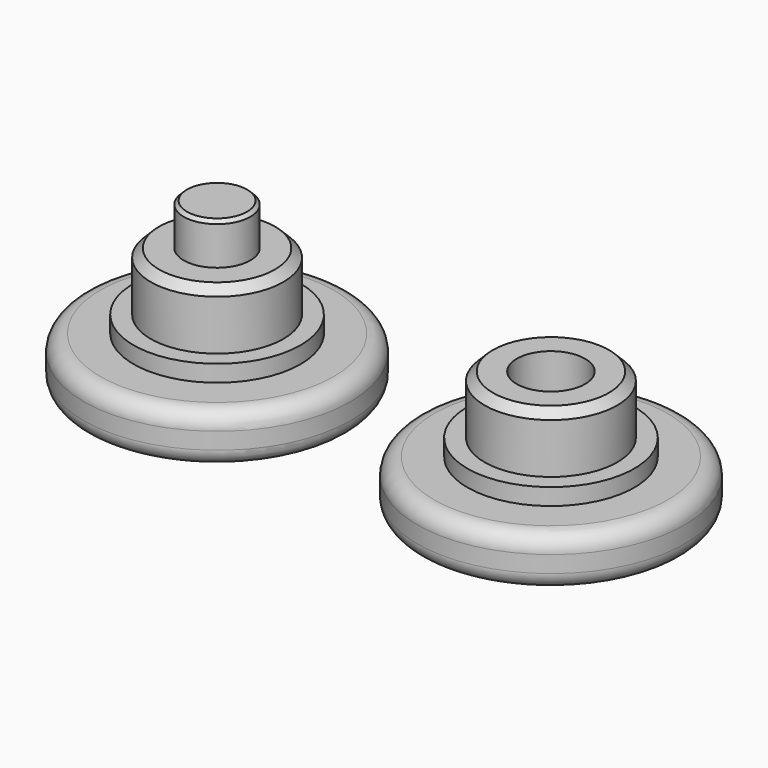
from build123d import *

# Parameters (mm, degrees)
F0_R       = 8
F1_DEPTH   = 3
F2_R       = 5
F3_DEPTH   = 1
F4_R       = 3.975
F5_DEPTH   = 3.5
F8_R       = 2
F9_DEPTH   = 2.5
F10_R      = 2.05
F11_DEPTH  = 2.7
F12_SIZE   = 0.2
F13_SIZE   = 0.5
F13_2_SIZE = 0.5
F14_R      = 1
F14_2_R    = 1


with BuildPart() as f1:
    # F0 (on Top) → F1 (new body)
    with BuildSketch(Plane.XY):
        Circle(F0_R)
    extrude(amount=F1_DEPTH)

    # F2 (on face) → F3 (join)
    with BuildSketch(Plane.XY.offset(3)):
        Circle(F2_R)
    extrude(amount=F3_DEPTH)

    # F4 (on face) → F5 (join)
    with BuildSketch(Plane.XY.offset(4)):
        Circle(F4_R)
    extrude(amount=F5_DEPTH)


with BuildPart() as f7_1:
    # F7: instance of F1
    add(f1.part.mirror(Plane.YZ.offset(10)))

    # F10 (on face) → F11 (cut)
    with BuildSketch(Plane.XY.offset(7.5)):
        with Locations((20, 0)):
            Circle(F10_R)
    extrude(amount=-F11_DEPTH, mode=Mode.SUBTRACT)

    # F13#2
    f13_2_edges = [f7_1.edges().sort_by_distance(p)[0] for p in [
        (23.975, 0, 7.5),
    ]]
    chamfer(f13_2_edges, length=F13_2_SIZE)

    # F14#2
    f14_2_edges = [f7_1.edges().sort_by_distance(p)[0] for p in [
        (28, 0, 3),
        (28, 0, 0),
    ]]
    fillet(f14_2_edges, radius=F14_2_R)


with BuildPart() as f1_1:
    add(f1.part)

    # F8 (on face) → F9 (join)
    with BuildSketch(Plane.XY.offset(7.5)):
        Circle(F8_R)
    extrude(amount=F9_DEPTH)

    # F12
    f12_edges = [f1_1.edges().sort_by_distance(p)[0] for p in [
        (-2, 0, 10),
    ]]
    chamfer(f12_edges, length=F12_SIZE)

    # F13
    f13_edges = [f1_1.edges().sort_by_distance(p)[0] for p in [
        (-3.975, 0, 7.5),
    ]]
    chamfer(f13_edges, length=F13_SIZE)

    # F14
    f14_edges = [f1_1.edges().sort_by_distance(p)[0] for p in [
        (-8, 0, 3),
        (-8, 0, 0),
    ]]
    fillet(f14_edges, radius=F14_R)


solid = Compound([f7_1.part, f1_1.part])
